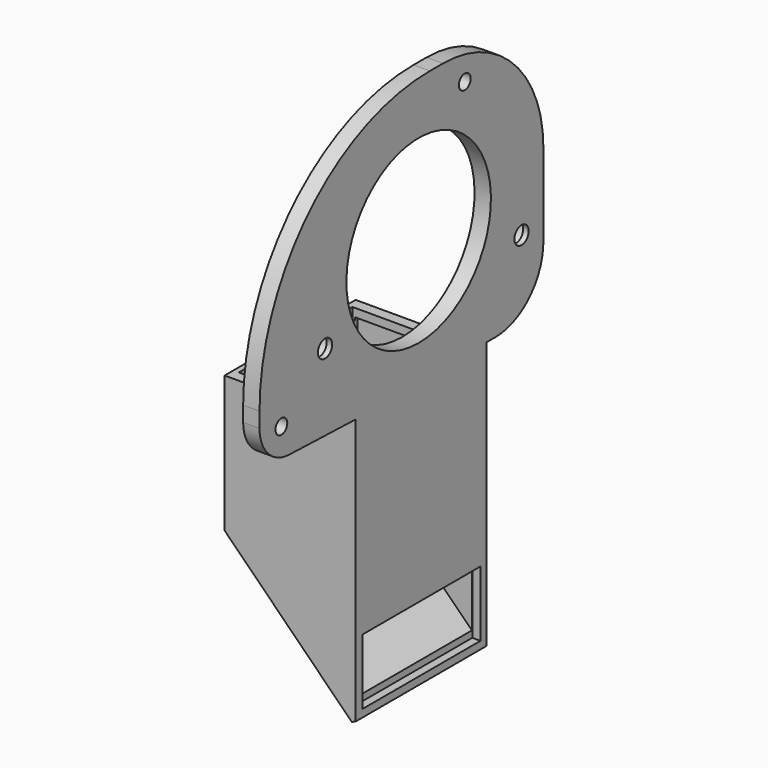
from build123d import *

# Parameters (mm, degrees)
PAD_DEPTH       = 65
SKETCH052_R     = 1.625
POCKET_DEPTH    = 5
SKETCH053_R     = 2.875
POCKET001_DEPTH = 2
SKETCH054_R     = 1.35
POCKET002_DEPTH = 5
SKETCH055_W     = 20
SKETCH055_H     = 26
POCKET003_DEPTH = 2
POCKET004_DEPTH = 28
POCKET005_DEPTH = 28
PAD001_DEPTH    = 1.5
SKETCH062_W     = 12
SKETCH062_H     = 27
POCKET006_DEPTH = 1.5
CHAMFER_SIZE    = 1
FILLET_R        = 11
FILLET001_R     = 23
FILLET002_R     = 39
FILLET003_R     = 7
SKETCH063_R     = 16.544176
POCKET007_DEPTH = 5


with BuildPart() as part:
    # Sketch → Pad (new body)
    with BuildSketch(Plane.XZ):
        Polygon((0, -64), (0, 35), (-3, 35), (-3, -15), (-24, -15), (-24, -40), align=None)
    extrude(amount=PAD_DEPTH)

    # Sketch052 (on Face3 of Pad) → Pocket (cut)
    with BuildSketch(Plane(origin=(-3, 0, 0), x_dir=(0, 0, -1), z_dir=(-1, 0, 0))):
        with Locations((0, 5)):
            Circle(SKETCH052_R)
        with Locations((0, 50)):
            Circle(SKETCH052_R)
    extrude(amount=-POCKET_DEPTH, mode=Mode.SUBTRACT)

    # Sketch053 (on Face9 of Pocket) → Pocket001 (cut)
    with BuildSketch(Plane(origin=(-3, 0, 0), x_dir=(0, 0, -1), z_dir=(-1, 0, 0))):
        with Locations((0, 50)):
            Circle(SKETCH053_R)
        with Locations((0, 5)):
            Circle(SKETCH053_R)
    extrude(amount=-POCKET001_DEPTH, mode=Mode.SUBTRACT)

    # Sketch054 (on Face9 of Pocket001) → Pocket002 (cut)
    with BuildSketch(Plane(origin=(-3, 0, 0), x_dir=(0, 0, -1), z_dir=(-1, 0, 0))):
        with Locations((8.5, 60)):
            Circle(SKETCH054_R)
        with Locations((-30, 18)):
            Circle(SKETCH054_R)
    extrude(amount=-POCKET002_DEPTH, mode=Mode.SUBTRACT)

    # Sketch055 (on Face12 of Pocket002) → Pocket003 (cut)
    with BuildSketch(Plane(origin=(0, 0, -15), x_dir=(-1, 0, 0), z_dir=(0, 0, 1))):
        with Locations((13, 28)):
            Rectangle(SKETCH055_W, SKETCH055_H)
    extrude(amount=-POCKET003_DEPTH, mode=Mode.SUBTRACT)

    # Sketch056 (on Face10 of Pocket003) → Pocket004 (cut)
    with BuildSketch(Plane(origin=(-24, 0, 0), x_dir=(0, 0, -1), z_dir=(-1, 0, 0))):
        Polygon((14.286358, 43), (65, 43), (65, 13), (14.028623, 13), (14.028623, -3.205193), (140.957237, -3.205193), (140.957237, 77.307121), (13.139557, 77.307121), align=None)
    extrude(amount=-POCKET004_DEPTH, mode=Mode.SUBTRACT)

    # Sketch057 (on Face2 of Pocket004) → Pocket005 (cut)
    with BuildSketch(Plane(origin=(0, -13, 0), x_dir=(1, 0, 0), z_dir=(0, 1, 0))):
        Polygon((-22.5, 16.5), (-1.5, 16.5), (-1.5, 60.37868), (-22.5, 39.37868), align=None)
    extrude(amount=-POCKET005_DEPTH, mode=Mode.SUBTRACT)

    # Sketch061 (on Face2 of Pocket005) → Pad001 (join)
    with BuildSketch(Plane(origin=(0, -13, 0), x_dir=(1, 0, 0), z_dir=(0, 1, 0))):
        Polygon((-1.009204, 15.459926), (-23.050085, 15.459926), (-23.050085, 39.634087), (-1.009204, 61.831638), align=None)
    extrude(amount=-PAD001_DEPTH)

    # Sketch062 (on Face1 of Pad001) → Pocket006 (cut)
    with BuildSketch(Plane(origin=(0, 0, 0), x_dir=(0, 0, 1), z_dir=(1, 0, 0))):
        with Locations((-55.608883, 27.916479)):
            Rectangle(SKETCH062_W, SKETCH062_H)
    extrude(amount=-POCKET006_DEPTH, mode=Mode.SUBTRACT)

    # Chamfer
    chamfer_edges = [part.edges().sort_by_distance(p)[0] for p in [
        (0, -28, -64),
    ]]
    chamfer(chamfer_edges, length=CHAMFER_SIZE)

    # Fillet
    fillet_edges = [part.edges().sort_by_distance(p)[0] for p in [
        (-1.5, 0, -14.028623),
    ]]
    fillet(fillet_edges, radius=FILLET_R)

    # Fillet001
    fillet001_edges = [part.edges().sort_by_distance(p)[0] for p in [
        (-1.5, 0, 35),
    ]]
    fillet(fillet001_edges, radius=FILLET001_R)

    # Fillet002
    fillet002_edges = [part.edges().sort_by_distance(p)[0] for p in [
        (-1.5, -65, 35),
    ]]
    fillet(fillet002_edges, radius=FILLET002_R)

    # Fillet003
    fillet003_edges = [part.edges().sort_by_distance(p)[0] for p in [
        (-1.5, -65, -13.550953),
    ]]
    fillet(fillet003_edges, radius=FILLET003_R)

    # Sketch063 (on Face22 of Fillet003) → Pocket007 (cut)
    with BuildSketch(Plane(origin=(-3, 0, 0), x_dir=(0, 0, -1), z_dir=(-1, 0, 0))):
        with Locations((-8.708356, 28.562584)):
            Circle(SKETCH063_R)
    extrude(amount=-POCKET007_DEPTH, mode=Mode.SUBTRACT)


solid = part.part
